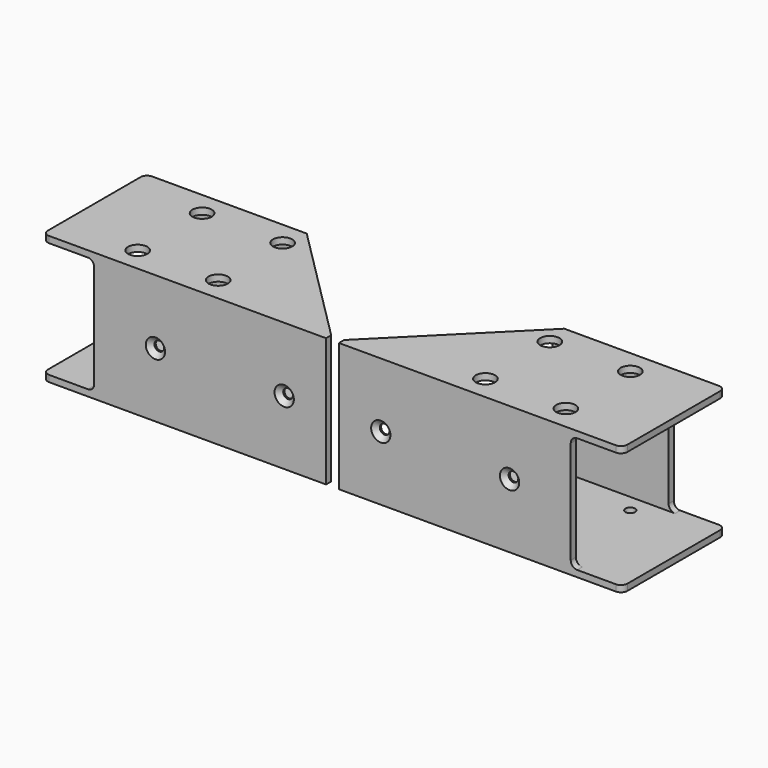
from build123d import *

# Parameters (mm, degrees)
F0_W            = 40
F0_H            = 40
F1_DEPTH        = 90
F2_T            = -2
F4_D            = 3
F4_DEPTH        = 3
F4_TIP          = 0.9012909285
F5_D            = 6
F5_DEPTH        = 40
F5_TIP          = 1.8025818571
F7_DEPTH        = 40.001
F8_W            = 16
F8_H            = 36
F9_DEPTH        = 40.001
F10_R           = 2
F11_D           = 3
F11_DEPTH       = 3
F11_CSINK_D     = 6
F11_CSINK_ANGLE = 90
F11_TIP         = 0.9012909285


with BuildPart() as f1:
    # F0 (on Right) → F1 (new body)
    with BuildSketch(Plane.YZ):
        Rectangle(F0_W, F0_H)
    extrude(amount=-F1_DEPTH)

    # F2
    f2_openings = [f1.faces().sort_by_distance(p)[0] for p in [
        (-90, 0, 0),
        (0, 0, 0),
    ]]
    offset(amount=F2_T, openings=f2_openings)

    # F4 (one way)
    with BuildSketch(Plane.XY.offset(-18)):
        with Locations((-66.5, 12.5), (-66.5, -12.5), (-41.5, -12.5), (-41.5, 12.5)):
            Circle(F4_D / 2)
    extrude(amount=-F4_DEPTH, mode=Mode.SUBTRACT)
    with Locations(Plane.XY.offset(-18)):
        with Locations((-66.5, 12.5), (-66.5, -12.5), (-41.5, -12.5), (-41.5, 12.5)):
            with Locations((0, 0, -(F4_DEPTH + F4_TIP / 2))):  # 118° drill point
                Cone(0, F4_D / 2, F4_TIP, mode=Mode.SUBTRACT)

    # F5 (one way)
    with BuildSketch(Plane(origin=(0, 0, -18), x_dir=(1, 0, 0), z_dir=(0, 0, -1))):
        with Locations((-66.5, -12.5), (-41.5, -12.5), (-66.5, 12.5), (-41.5, 12.5)):
            Circle(F5_D / 2)
    extrude(amount=-F5_DEPTH, mode=Mode.SUBTRACT)
    with Locations(Plane(origin=(0, 0, -18), x_dir=(1, 0, 0), z_dir=(0, 0, -1))):
        with Locations((-66.5, -12.5), (-41.5, -12.5), (-66.5, 12.5), (-41.5, 12.5)):
            with Locations((0, 0, -(F5_DEPTH + F5_TIP / 2))):  # 118° drill point
                Cone(0, F5_D / 2, F5_TIP, mode=Mode.SUBTRACT)

    # F6 (on face) → F7 (cut, through all)
    with BuildSketch(Plane.XY.offset(20)):
        Polygon((-2, -18), (0, -20), (0, 20), (-40, 20), align=None)
        Polygon((-2, -20), (0, -20), (-2, -18), align=None)
    extrude(amount=-F7_DEPTH, mode=Mode.SUBTRACT)

    # F8 (on face) → F9 (cut, through all)
    with BuildSketch(Plane.XZ.offset(20)):
        with Locations((-82, 0)):
            Rectangle(F8_W, F8_H)
    extrude(amount=-F9_DEPTH, mode=Mode.SUBTRACT)

    # F10
    f10_edges = [f1.edges().sort_by_distance(p)[0] for p in [
        (-74, -19, 18),
        (-74, 19, 18),
        (-74, 19, -18),
        (-74, -19, -18),
        (-90, 20, 19),
        (-90, -20, 19),
        (-90, -20, -19),
        (-90, 20, -19),
    ]]
    fillet(f10_edges, radius=F10_R)

    # F11
    with Locations(Plane.XZ.offset(20)):
        with Locations((-55, 0), (-15, 0)):
            CounterSinkHole(F11_D / 2, F11_CSINK_D / 2, depth=F11_DEPTH, counter_sink_angle=F11_CSINK_ANGLE)
            with Locations((0, 0, -(F11_DEPTH + F11_TIP / 2))):  # 118° drill point
                Cone(0, F11_D / 2, F11_TIP, mode=Mode.SUBTRACT)


with BuildPart() as f12_1:
    # F12: instance of F1
    add(f1.part.mirror(Plane.YZ))


solid = Compound([f1.part, f12_1.part])
